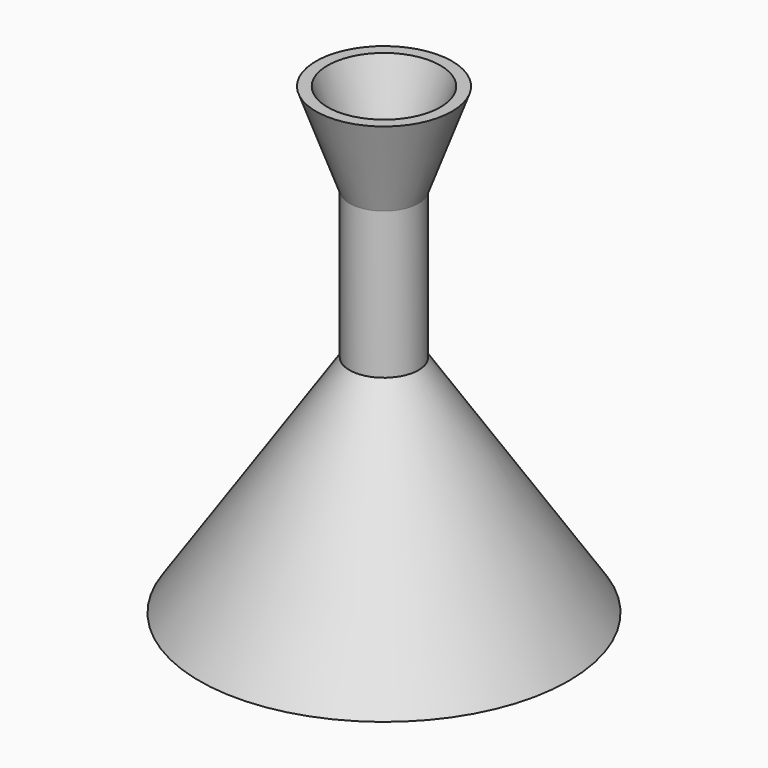
from build123d import *


with BuildPart() as f1:
    # F0 (on Front) → F1 (revolve)
    with BuildSketch(Plane.XZ):
        Polygon((4.221644455, 17.4464816135), (6.35, 17.4464816135), (12.5, 34.3434677432), (10.371644455, 34.3434677432), align=None)
        Polygon((0, 5.8476088003), (0, 0), (6.35, 17.4464816135), (4.221644455, 17.4464816135), align=None)
    revolve(axis=Axis((0, 0, -8.2282661284), (0, 0, -1)))


with BuildPart() as f2:
    # F0 (on Front) → F2 (revolve)
    with BuildSketch(Plane.XZ):
        Polygon((-3.9446204523, -9.5034465929), (-6.35, -9.5034465929), (-33.9434748063, -50.8), (-31.5380952586, -50.8), align=None)
        Polygon((0, -3.5999048925), (0, 0), (-6.35, -9.5034465929), (-3.9446204523, -9.5034465929), align=None)
    revolve(axis=Axis((0, 0, -8.2282661284), (0, 0, -1)))


with BuildPart() as f3:
    # F0 (on Front) → F3 (revolve)
    with BuildSketch(Plane.XZ):
        Polygon((6.35, 17.4464816135), (0, 0), (6.35, -9.5034465929), align=None)
        Polygon((0, 5.8476088003), (0, 0), (6.35, 17.4464816135), (4.221644455, 17.4464816135), align=None)
        Polygon((6.35, -9.5034465929), (0, 0), (0, -3.5999048925), (3.9446204523, -9.5034465929), align=None)
    revolve(axis=Axis((0, 0, -8.2282661284), (0, 0, -1)))


solid = Compound([f1.part, f2.part, f3.part])
